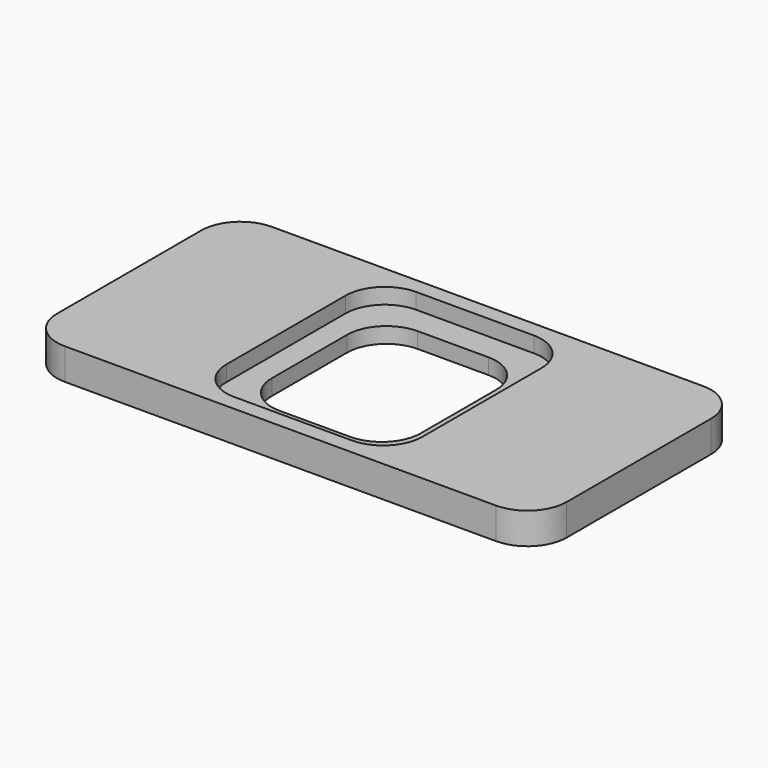
from build123d import *

# Parameters (mm, degrees)
F1_DEPTH = 2
F2_DEPTH = 4


with BuildPart() as f1:
    # F0 (on Top) → F1 (new body)
    with BuildSketch(Plane.XY):
        with BuildLine():
            ThreePointArc((32.5, 11.5), (31.035534, 15.035534), (27.5, 16.5))
            Line((27.5, 16.5), (-27.5, 16.5))
            ThreePointArc((-27.5, 16.5), (-31.035534, 15.035534), (-32.5, 11.5))
            Line((-32.5, 11.5), (-32.5, -11.5))
            ThreePointArc((-32.5, -11.5), (-31.035534, -15.035534), (-27.5, -16.5))
            Line((-27.5, -16.5), (27.5, -16.5))
            ThreePointArc((27.5, -16.5), (31.035534, -15.035534), (32.5, -11.5))
            Line((32.5, -11.5), (32.5, 11.5))
        make_face()
        with BuildLine():
            Line((-7.5, 14.5), (7.5, 14.5))
            ThreePointArc((7.5, 14.5), (11.035534, 13.035534), (12.5, 9.5))
            Line((12.5, 9.5), (12.5, -9.5))
            ThreePointArc((12.5, -9.5), (11.035534, -13.035534), (7.5, -14.5))
            Line((7.5, -14.5), (-7.5, -14.5))
            ThreePointArc((-7.5, -14.5), (-11.035534, -13.035534), (-12.5, -9.5))
            Line((-12.5, -9.5), (-12.5, 9.5))
            ThreePointArc((-12.5, 9.5), (-11.035534, 13.035534), (-7.5, 14.5))
        make_face(mode=Mode.SUBTRACT)
        with BuildLine():
            ThreePointArc((12.5, 9.5), (11.035534, 13.035534), (7.5, 14.5))
            Line((7.5, 14.5), (-7.5, 14.5))
            ThreePointArc((-7.5, 14.5), (-11.035534, 13.035534), (-12.5, 9.5))
            Line((-12.5, 9.5), (-12.5, -9.5))
            ThreePointArc((-12.5, -9.5), (-11.035534, -13.035534), (-7.5, -14.5))
            Line((-7.5, -14.5), (7.5, -14.5))
            ThreePointArc((7.5, -14.5), (11.035534, -13.035534), (12.5, -9.5))
            Line((12.5, -9.5), (12.5, 9.5))
        make_face()
        with BuildLine():
            Line((-4.5, 11), (4.5, 11))
            ThreePointArc((4.5, 11), (8.035534, 9.535534), (9.5, 6))
            Line((9.5, 6), (9.5, -6))
            ThreePointArc((9.5, -6), (8.035534, -9.535534), (4.5, -11))
            Line((4.5, -11), (-4.5, -11))
            ThreePointArc((-4.5, -11), (-8.035534, -9.535534), (-9.5, -6))
            Line((-9.5, -6), (-9.5, 6))
            ThreePointArc((-9.5, 6), (-8.035534, 9.535534), (-4.5, 11))
        make_face(mode=Mode.SUBTRACT)
    extrude(amount=F1_DEPTH)

    # F0 (on Top) → F2 (join)
    with BuildSketch(Plane.XY):
        with BuildLine():
            ThreePointArc((32.5, 11.5), (31.035534, 15.035534), (27.5, 16.5))
            Line((27.5, 16.5), (-27.5, 16.5))
            ThreePointArc((-27.5, 16.5), (-31.035534, 15.035534), (-32.5, 11.5))
            Line((-32.5, 11.5), (-32.5, -11.5))
            ThreePointArc((-32.5, -11.5), (-31.035534, -15.035534), (-27.5, -16.5))
            Line((-27.5, -16.5), (27.5, -16.5))
            ThreePointArc((27.5, -16.5), (31.035534, -15.035534), (32.5, -11.5))
            Line((32.5, -11.5), (32.5, 11.5))
        make_face()
        with BuildLine():
            Line((-7.5, 14.5), (7.5, 14.5))
            ThreePointArc((7.5, 14.5), (11.035534, 13.035534), (12.5, 9.5))
            Line((12.5, 9.5), (12.5, -9.5))
            ThreePointArc((12.5, -9.5), (11.035534, -13.035534), (7.5, -14.5))
            Line((7.5, -14.5), (-7.5, -14.5))
            ThreePointArc((-7.5, -14.5), (-11.035534, -13.035534), (-12.5, -9.5))
            Line((-12.5, -9.5), (-12.5, 9.5))
            ThreePointArc((-12.5, 9.5), (-11.035534, 13.035534), (-7.5, 14.5))
        make_face(mode=Mode.SUBTRACT)
    extrude(amount=F2_DEPTH)


solid = f1.part
